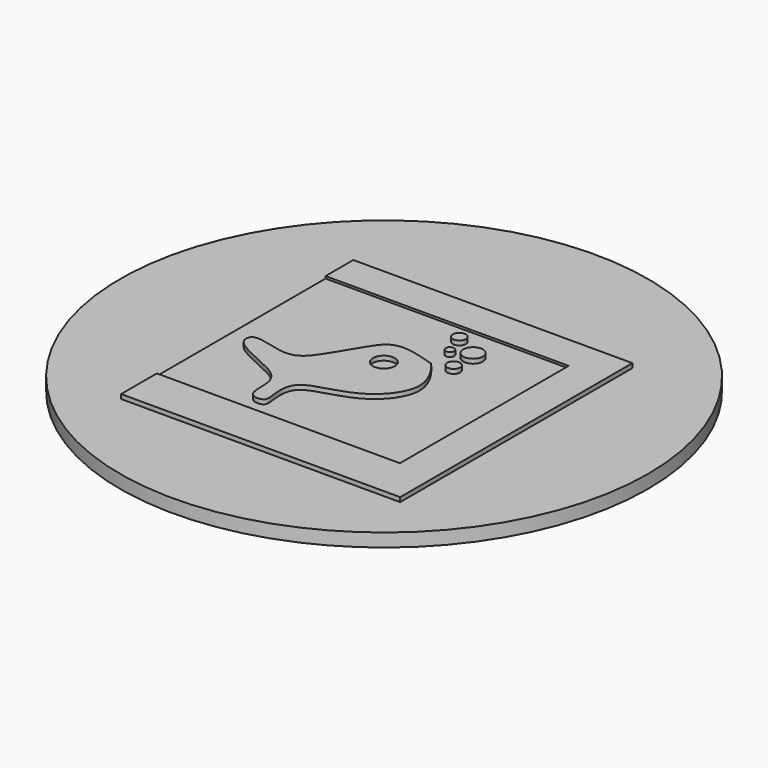
from build123d import *

# Parameters (mm, degrees)
F0_R      = 59.746411041
F1_DEPTH  = 3
F3_DEPTH  = 1
F4_W      = 55.0267398357
F4_H      = 47.7272737771
F5_DEPTH  = 0.5
F7_DEPTH  = 1
F8_R      = 2.4738185133
F9_DEPTH  = 1
F10_R     = 2.2199318272
F10_R_2   = 1.465437808
F10_R_3   = 0.9519318114
F10_R_4   = 1.4654400208
F11_DEPTH = 1


with BuildPart() as f1:
    # F0 (on Top) → F1 (new body)
    with BuildSketch(Plane.XY):
        Circle(F0_R)
    extrude(amount=F1_DEPTH)

    # F2 (on face) → F3 (join)
    with BuildSketch(Plane.XY.offset(3)):
        Polygon((32.2861000896, 29.8997331411), (-30.8823548257, 29.8997331411), (-30.8823548257, 22.0387708396), (24.14438501, 22.0387708396), (24.14438501, -25.6885029376), (-30.8823548257, -25.6885029376), (-30.8823548257, -35.7954576612), (32.2861000896, -35.7954576612), align=None)
    extrude(amount=F3_DEPTH)

    # F4 (on face) → F5 (join)
    with BuildSketch(Plane.XY.offset(3)):
        with Locations((-3.3689849079, -1.824866049)):
            Rectangle(F4_W, F4_H)
    extrude(amount=F5_DEPTH)

    # F6 (on face) → F7 (join)
    with BuildSketch(Plane.XY.offset(3.5)):
        with BuildLine():
            add(Edge.make_bspline(
                [(-7.8967735171, 4.4630197808), (-6.7472410939, 6.3631146928), (-4.2978470766, 10.3579710963), (4.9236583813, 6.7117134789), (5.0381701976, 7.1338413451), (11.9620101246, -0.915486679), (3.2320457014, -11.8590867107), (-9.7005034886, -12.6508830087), (-9.2341364863, -19.6502724984), (-8.6216118359, -22.8505288553), (-12.5728787551, -22.7759109925), (-12.7049356975, -18.6588510203), (-12.8181265408, -12.6591944575), (-26.8299925031, -9.070957377), (-26.2673376023, -3.8043012984), (-20.0692490511, -5.9986578173), (-14.7561582368, -6.4054263727), (-11.4189815971, -1.4119849747), (-9.117917068, 2.4445567946), (-7.8967735171, 4.4630197808)],
                knots=[0, 0, 0, 0, 0.0628292736, 0.1346835267, 0.143073424, 0.2136489841, 0.3010025203, 0.3856405201, 0.4441669851, 0.4844793874, 0.523851834, 0.5706012448, 0.6285825789, 0.7189345215, 0.7591710772, 0.8181193089, 0.8750291185, 0.9332567218, 1, 1, 1, 1], degree=3))
        make_face()
    extrude(amount=F7_DEPTH)

    # F8 (on face) → F9 (cut)
    with BuildSketch(Plane.XY.offset(4.5)):
        with Locations((-1.6575232148, 2.0118856337)):
            Circle(F8_R)
    extrude(amount=-F9_DEPTH, mode=Mode.SUBTRACT)

    # F10 (on face) → F11 (join)
    with BuildSketch(Plane.XY.offset(3.5)):
        with Locations((8.4812575951, 14.6018015221)):
            Circle(F10_R)
        with Locations((2.6876691263, 17.9442577064)):
            Circle(F10_R_2)
        with Locations((4.4703115709, 13.0419889465)):
            Circle(F10_R_3)
        with Locations((8.704087697, 8.8082114235)):
            Circle(F10_R_4)
    extrude(amount=F11_DEPTH)


solid = f1.part
